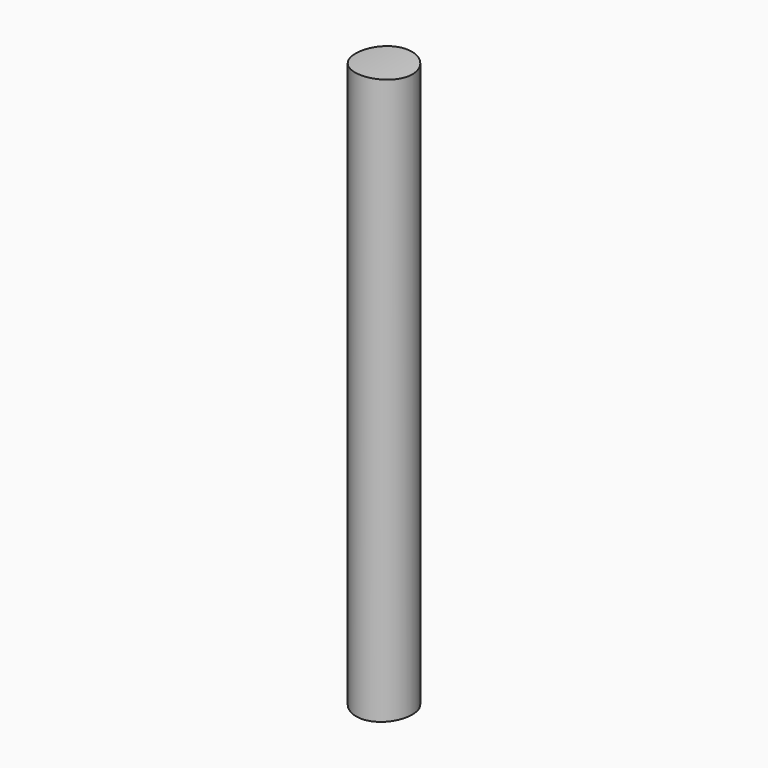
from build123d import *

# Parameters (mm, degrees)
F0_R     = 2.5
F1_DEPTH = 50
F2_R     = 26.727435
F2_R_2   = 25
F3_DEPTH = 12.5


with BuildPart() as f1:
    # F0 (on Top) → F1 (new body)
    with BuildSketch(Plane.XY):
        Circle(F0_R)
    extrude(amount=F1_DEPTH)

    # F2 (on Front) → F3 (cut, symmetric)
    with BuildSketch(Plane.XZ):
        with Locations((0, 25)):
            Circle(F2_R)
        with Locations((0, 25)):
            Circle(F2_R_2, mode=Mode.SUBTRACT)
    extrude(amount=F3_DEPTH, both=True, mode=Mode.SUBTRACT)


solid = f1.part
